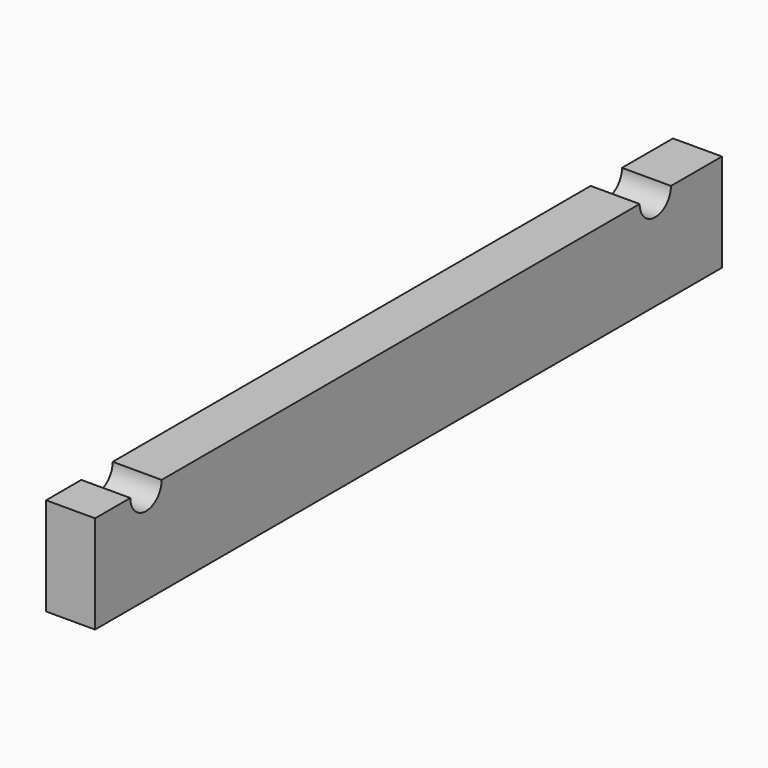
from build123d import *

# Parameters (mm, degrees)
F0_W     = 50
F0_H     = 100
F1_DEPTH = 800
F3_DEPTH = 50.001


with BuildPart() as f1:
    # F0 (on Front) → F1 (new body)
    with BuildSketch(Plane.XZ):
        with Locations((25, 50)):
            Rectangle(F0_W, F0_H)
    extrude(amount=F1_DEPTH)

    # F2 (on face) → F3 (cut, through all)
    with BuildSketch(Plane.YZ.offset(50)):
        with BuildLine():
            Line((-715, 100), (-755, 100))
            ThreePointArc((-755, 100), (-735, 80), (-715, 100))
        make_face()
        with BuildLine():
            Line((-65, 100), (-105, 100))
            ThreePointArc((-105, 100), (-85, 80), (-65, 100))
        make_face()
    extrude(amount=-F3_DEPTH, mode=Mode.SUBTRACT)


solid = f1.part
